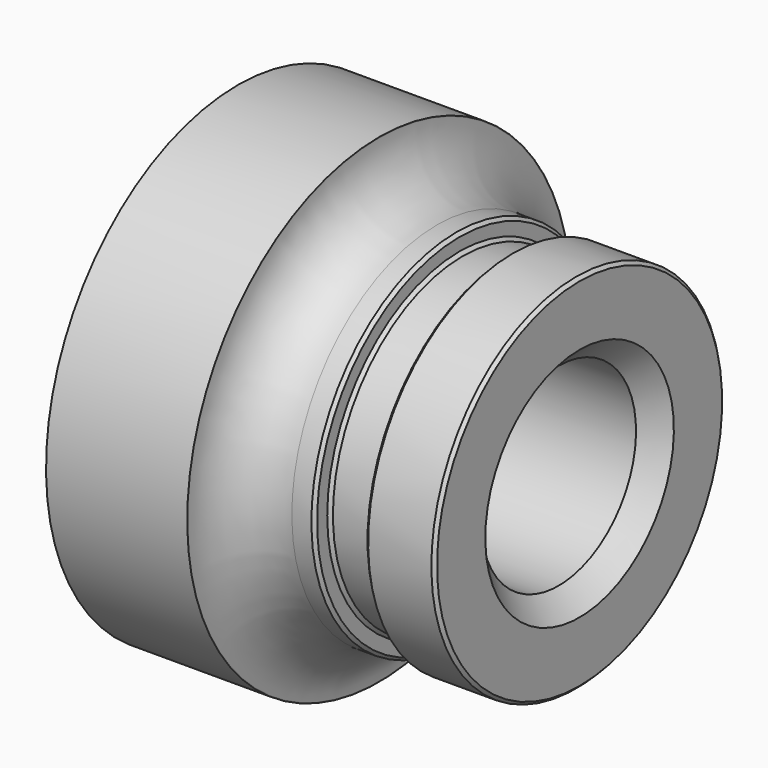
from build123d import *

# Parameters (mm, degrees)
F2_SIZE = 0.762
F3_SIZE = 5.08
F4_R    = 13.97


with BuildPart() as f1:
    # F0 (on Front) → F1 (revolve)
    with BuildSketch(Plane.XZ):
        Polygon((-9.65059, 57.969252), (-43.776404, 57.969252), (-43.776404, 23.401398), (38.797457, 23.401398), (38.797457, 43.823838), (21.999775, 43.823838), (21.999775, 39.226579), (9.799354, 39.226579), (9.799354, 43.823838), (-9.65059, 43.823838), align=None)
    revolve(axis=Axis((-2.489474, 0, 0), (1, 0, 0)))

    # F2
    f2_edges = [f1.edges().sort_by_distance(p)[0] for p in [
        (38.797457, 0, -43.823838),
        (21.999775, 0, -43.823838),
        (9.799354, 0, -43.823838),
        (9.799354, 0, -39.226579),
        (21.999775, 0, -39.226579),
    ]]
    chamfer(f2_edges, length=F2_SIZE)

    # F3
    f3_edges = [f1.edges().sort_by_distance(p)[0] for p in [
        (38.797457, 0, -23.401398),
    ]]
    chamfer(f3_edges, length=F3_SIZE)

    # F4
    f4_edges = [f1.edges().sort_by_distance(p)[0] for p in [
        (-9.65059, 0, -43.823838),
    ]]
    fillet(f4_edges, radius=F4_R)


solid = f1.part
